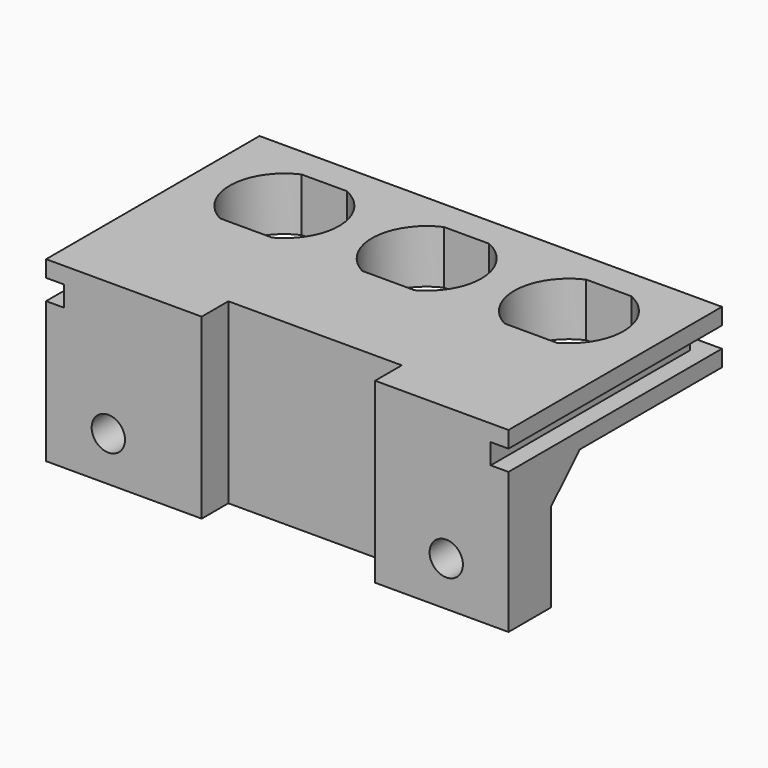
from build123d import *

# Parameters (mm, degrees)
SKETCH_W        = 52
SKETCH_H        = 30
PAD_DEPTH       = 6
SKETCH001_R     = 6.15
POCKET_DEPTH    = 6
SKETCH002_W     = 30
SKETCH002_H     = 2.3
POCKET001_DEPTH = 2
SKETCH003_W     = 52
SKETCH003_H     = 2.3
POCKET002_DEPTH = 2
SKETCH004_W     = 30
SKETCH004_H     = 2.3
POCKET003_DEPTH = 2
SKETCH005_W     = 52
SKETCH005_H     = 6
PAD001_DEPTH    = 14
SKETCH006_W     = 19.5
SKETCH006_H     = 3.75
POCKET004_DEPTH = 26
CHAMFER_SIZE    = 4
SKETCH007_W     = 45
SKETCH007_H     = 2
PAD002_DEPTH    = 6
SKETCH008_R     = 1.875
POCKET005_DEPTH = 6


with BuildPart() as part:
    # Sketch → Pad (new body)
    with BuildSketch(Plane.XY):
        Rectangle(SKETCH_W, SKETCH_H)
    extrude(amount=PAD_DEPTH)

    # Sketch001 (on Face6 of Pad) → Pocket (cut)
    with BuildSketch(Plane.XY.offset(6)):
        with Locations((-16, 6)):
            Circle(SKETCH001_R)
        with Locations((0, 6)):
            Circle(SKETCH001_R)
        with Locations((16, 6)):
            Circle(SKETCH001_R)
    extrude(amount=-POCKET_DEPTH, mode=Mode.SUBTRACT)

    # Sketch002 (on Face3 of Pocket) → Pocket001 (cut)
    with BuildSketch(Plane.YZ.offset(26)):
        with Locations((0, 3)):
            Rectangle(SKETCH002_W, SKETCH002_H)
    extrude(amount=-POCKET001_DEPTH, mode=Mode.SUBTRACT)

    # Sketch003 (on Face1 of Pocket001) → Pocket002 (cut)
    with BuildSketch(Plane(origin=(0, 15, 0), x_dir=(-1, 0, 0), z_dir=(0, 1, 0))):
        with Locations((0, 3)):
            Rectangle(SKETCH003_W, SKETCH003_H)
    extrude(amount=-POCKET002_DEPTH, mode=Mode.SUBTRACT)

    # Sketch004 (on Face6 of Pocket002) → Pocket003 (cut)
    with BuildSketch(Plane(origin=(-26, 0, 0), x_dir=(0, -1, 0), z_dir=(-1, 0, 0))):
        with Locations((0, 3)):
            Rectangle(SKETCH004_W, SKETCH004_H)
    extrude(amount=-POCKET003_DEPTH, mode=Mode.SUBTRACT)

    # Sketch005 (on Face2 of Pocket003) → Pad001 (join)
    with BuildSketch(Plane(origin=(0, 0, 0), x_dir=(1, 0, 0), z_dir=(0, 0, -1))):
        with Locations((0, 12)):
            Rectangle(SKETCH005_W, SKETCH005_H)
    extrude(amount=PAD001_DEPTH)

    # Sketch006 (on Face19 of Pad001) → Pocket004 (cut)
    with BuildSketch(Plane.XY.offset(6)):
        with Locations((1.25, -13.125)):
            Rectangle(SKETCH006_W, SKETCH006_H)
    extrude(amount=-POCKET004_DEPTH, mode=Mode.SUBTRACT)

    # Chamfer
    chamfer_edges = [part.edges().sort_by_distance(p)[0] for p in [
        (0, -9, 0),
    ]]
    chamfer(chamfer_edges, length=CHAMFER_SIZE)

    # Sketch007 (on Face19 of Chamfer) → Pad002 (join)
    with BuildSketch(Plane.XY.offset(6)):
        with Locations((0, -0.4)):
            Rectangle(SKETCH007_W, SKETCH007_H)
        with Locations((0, 12.6)):
            Rectangle(SKETCH007_W, SKETCH007_H)
    extrude(amount=-PAD002_DEPTH)

    # Sketch008 (on Face16 of Pad002) → Pocket005 (cut)
    with BuildSketch(Plane(origin=(0, -9, 0), x_dir=(-1, 0, 0), z_dir=(0, 1, 0))):
        with Locations((-19, -9)):
            Circle(SKETCH008_R)
        with Locations((19, -9)):
            Circle(SKETCH008_R)
    extrude(amount=-POCKET005_DEPTH, mode=Mode.SUBTRACT)


solid = part.part
